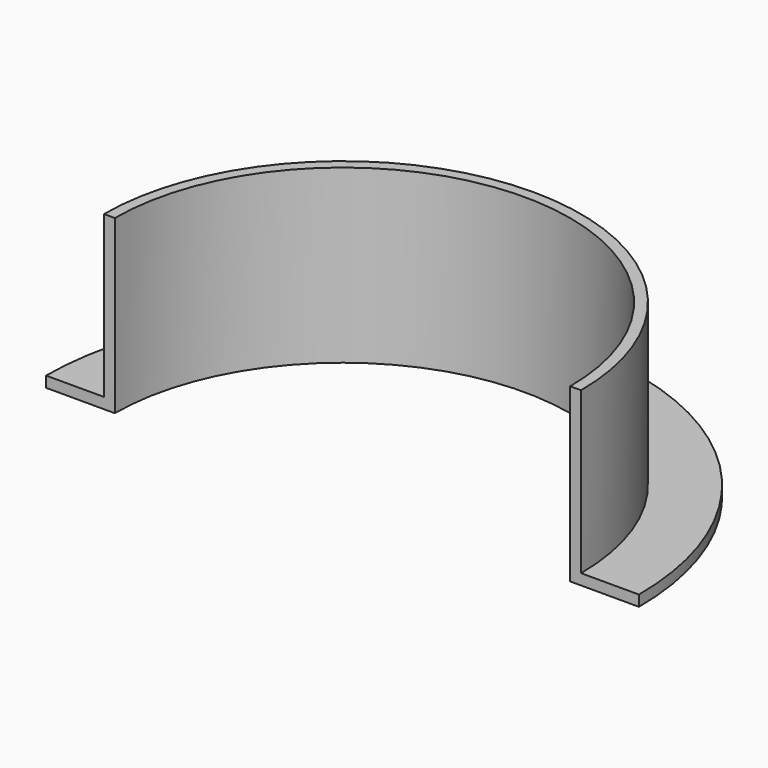
from build123d import *

# Parameters (mm, degrees)
F1_ANGLE = 180


with BuildPart() as f1:
    # F0 (on Front) → F1 (revolve)
    with BuildSketch(Plane.XZ):
        Polygon((44.06875, 2), (44.06875, 31.75), (42.06875, 31.75), (42.06875, 0), (54.76875, 0), (54.76875, 2), align=None)
    revolve(axis=Axis((0, 0, 48.084427), (0, 0, 1)), revolution_arc=F1_ANGLE)


solid = f1.part
